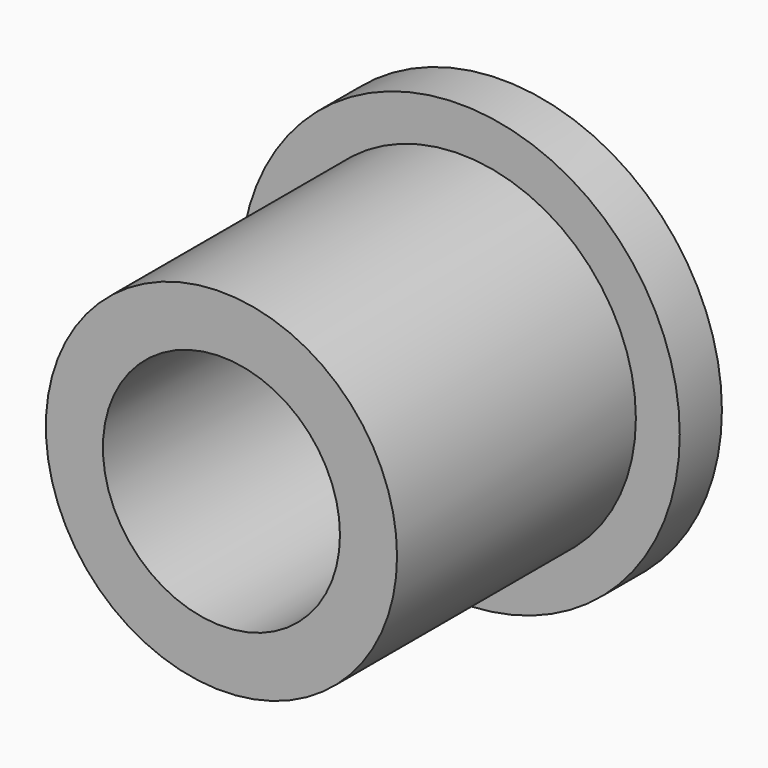
from build123d import *

# Parameters (mm, degrees)
F0_R     = 12.7
F0_R_2   = 8.5725
F1_DEPTH = 25.4
F0_R_3   = 15.875
F2_DEPTH = 3.81


with BuildPart() as f1:
    # F0 (on Front) → F1 (new body)
    with BuildSketch(Plane.XZ):
        Circle(F0_R)
        Circle(F0_R_2, mode=Mode.SUBTRACT)
    extrude(amount=F1_DEPTH)

    # F0 (on Front) → F2 (join)
    with BuildSketch(Plane.XZ):
        Circle(F0_R_3)
        Circle(F0_R, mode=Mode.SUBTRACT)
    extrude(amount=F2_DEPTH)


solid = f1.part
